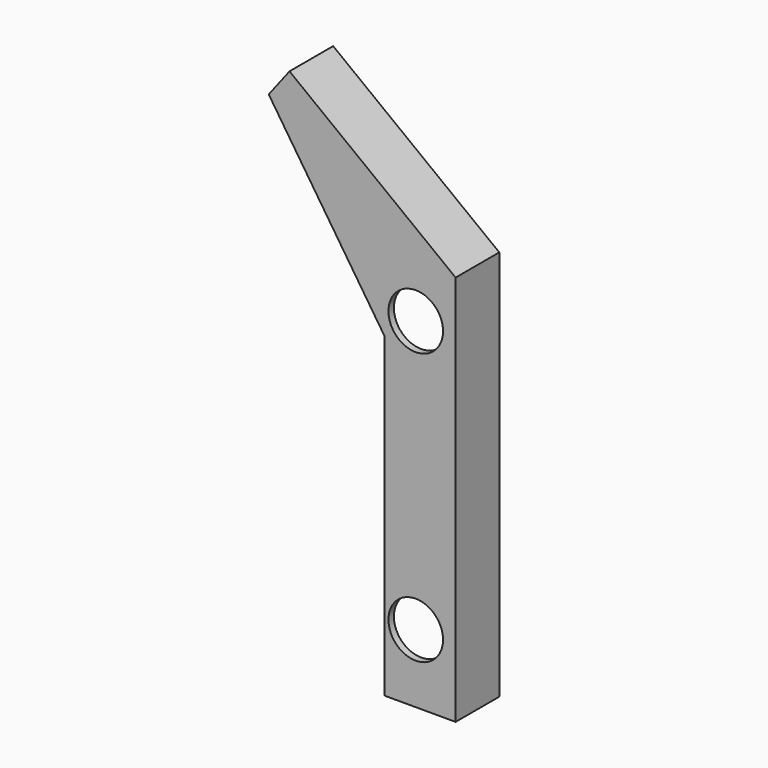
from build123d import *

# Parameters (mm, degrees)
F0_R     = 25.4
F1_DEPTH = 50.8
F2_DEPTH = 44.45
F3_R     = 12.7
F4_DEPTH = 50.8


with BuildPart() as f1:
    # F0 (on Front) → F1 (new body)
    with BuildSketch(Plane.XZ):
        Polygon((-324.775483, -205.800596), (-265.085489, -205.800596), (-265.085489, 155.105879), (-412.146998, 268.055191), (-428.950995, 246.176162), (-324.775483, 88.584425), align=None)
        with Locations((-295.854737, -142.300596)):
            Circle(F0_R, mode=Mode.SUBTRACT)
        with Locations((-295.854737, 110.456314)):
            Circle(F0_R, mode=Mode.SUBTRACT)
        Polygon((-265.085489, -205.800596), (-258.735483, -205.800596), (-258.735483, 158.235581), (-413.315155, 276.959153), (-432.65465, 251.778873), (-428.950995, 246.176162), (-412.146998, 268.055191), (-265.085489, 155.105879), align=None)
    extrude(amount=F1_DEPTH)

    # F0 (on Front) → F2 (cut)
    with BuildSketch(Plane.XZ):
        Polygon((-324.775483, -205.800596), (-265.085489, -205.800596), (-265.085489, 155.105879), (-412.146998, 268.055191), (-428.950995, 246.176162), (-324.775483, 88.584425), align=None)
        with Locations((-295.854737, -142.300596)):
            Circle(F0_R, mode=Mode.SUBTRACT)
        with Locations((-295.854737, 110.456314)):
            Circle(F0_R, mode=Mode.SUBTRACT)
    extrude(amount=F2_DEPTH, mode=Mode.SUBTRACT)

    # F3 (on face) → F4 (join)
    with BuildSketch(Plane(origin=(0, -44.45, 0), x_dir=(-1, 0, 0), z_dir=(0, 1, 0))):
        with Locations((404.479494, 236.68493)):
            Circle(F3_R)
    extrude(amount=F4_DEPTH)


solid = f1.part
